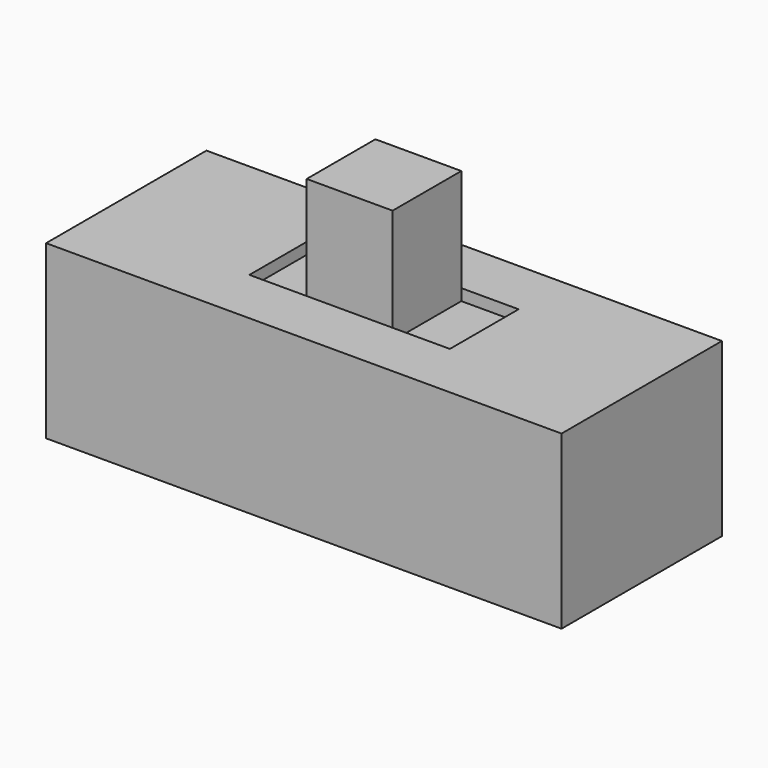
from build123d import *

# Parameters (mm, degrees)
PAD_DEPTH     = 0.5
FILLET_R      = 0.3
FILLET001_R   = 0.1
ARRAY_X_COUNT = 3
ARRAY_X_PITCH = 2.5
SKETCH_W      = 9
SKETCH_H      = 3.5
PAD001_DEPTH  = 3
SKETCH002_W   = 3.5
SKETCH002_H   = 1.5
POCKET_DEPTH  = 0.2
SKETCH003_W   = 1.5
SKETCH003_H   = 1.5
PAD002_DEPTH  = 2


with BuildPart() as array:
    # Sketch001 → Pad (new body)
    with BuildSketch(Plane.YZ):
        Polygon((-1.75, 0), (-1.75, -0.5), (-3.75, -0.5), (-3.75, -0.8), (-1.45, -0.8), (-1.45, 0), align=None)
    extrude(amount=PAD_DEPTH)

    # Fillet
    fillet_edges = [array.edges().sort_by_distance(p)[0] for p in [
        (0.25, -1.45, -0.8),
    ]]
    fillet(fillet_edges, radius=FILLET_R)

    # Fillet001
    fillet001_edges = [array.edges().sort_by_distance(p)[0] for p in [
        (0.25, -1.75, -0.5),
    ]]
    fillet(fillet001_edges, radius=FILLET001_R)

    # Array X: Array ×3


with BuildPart() as array_1:
    add(array.part)
    with Locations(*[(i * ARRAY_X_PITCH, 0, 0) for i in range(1, ARRAY_X_COUNT)]):
        add(array.part)


with BuildPart() as array_2:
    # Array placement: moved
    add(array_1.part.moved(Location((-2.75, 0, 0))))


with BuildPart() as part_mirroring:
    # Part__Mirroring: instance of Array
    add(array_2.part.mirror(Plane(origin=(0, 0, 0), x_dir=(1, 0, 0), z_dir=(0, 1, 0))))


with BuildPart() as pad002:
    # Sketch → Pad001 (new body)
    with BuildSketch(Plane.XY):
        Rectangle(SKETCH_W, SKETCH_H)
    extrude(amount=PAD001_DEPTH)

    # Sketch002 → Pocket (cut)
    with BuildSketch(Plane.XY.offset(3)):
        Rectangle(SKETCH002_W, SKETCH002_H)
    extrude(amount=-POCKET_DEPTH, mode=Mode.SUBTRACT)

    # Sketch003 → Pad002 (new body)
    with BuildSketch(Plane.XY.offset(2.8)):
        Rectangle(SKETCH003_W, SKETCH003_H)
    extrude(amount=PAD002_DEPTH)


solid = Compound([part_mirroring.part, pad002.part])
